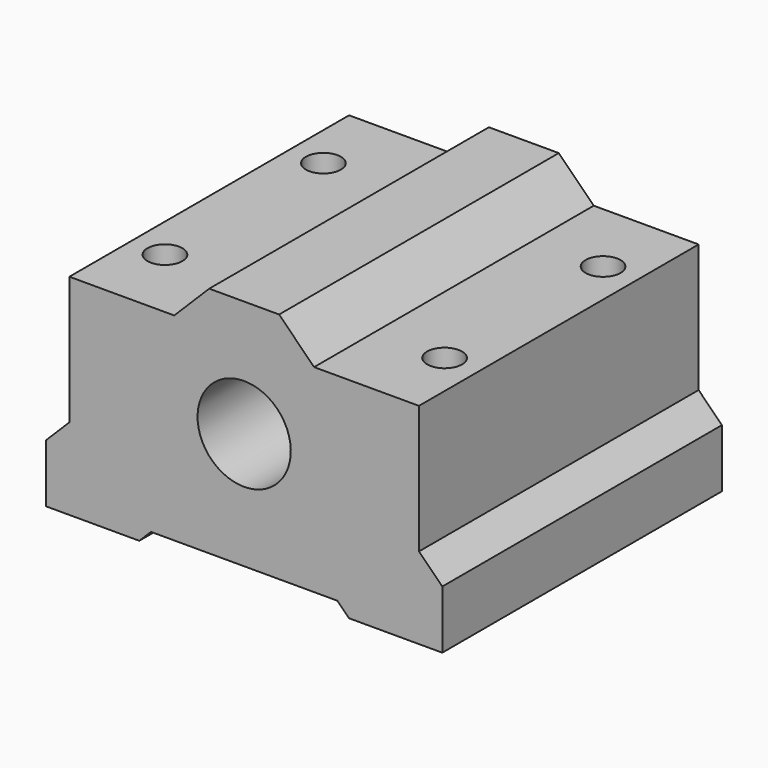
from build123d import *

# Parameters (mm, degrees)
F1_DEPTH = 30
F2_R     = 1.5
F3_DEPTH = 21.001


with BuildPart() as f1:
    # F0 (on Front) → F1 (new body)
    with BuildSketch(Plane.XZ):
        Polygon((-8, 1), (0, 1), (8, 1), (9, 0), (17, 0), (17, 5), (15, 7), (15, 18), (6, 18), (3, 21), (0, 21), (-3, 21), (-6, 18), (-15, 18), (-15, 7), (-17, 5), (-17, 0), (-9, 0), align=None)
        with BuildLine():
            ThreePointArc((0, 15), (4, 11), (0, 7))
            ThreePointArc((0, 7), (-4, 11), (0, 15))
        make_face(mode=Mode.SUBTRACT)
    extrude(amount=F1_DEPTH)

    # F2 (on Top) → F3 (cut, through all)
    with BuildSketch(Plane.XY):
        with Locations((-12, -6.5)):
            Circle(F2_R)
        with Locations((-12, -23.5)):
            Circle(F2_R)
        with Locations((12, -23.5)):
            Circle(F2_R)
        with Locations((12, -6.5)):
            Circle(F2_R)
    extrude(amount=F3_DEPTH, mode=Mode.SUBTRACT)


solid = f1.part
